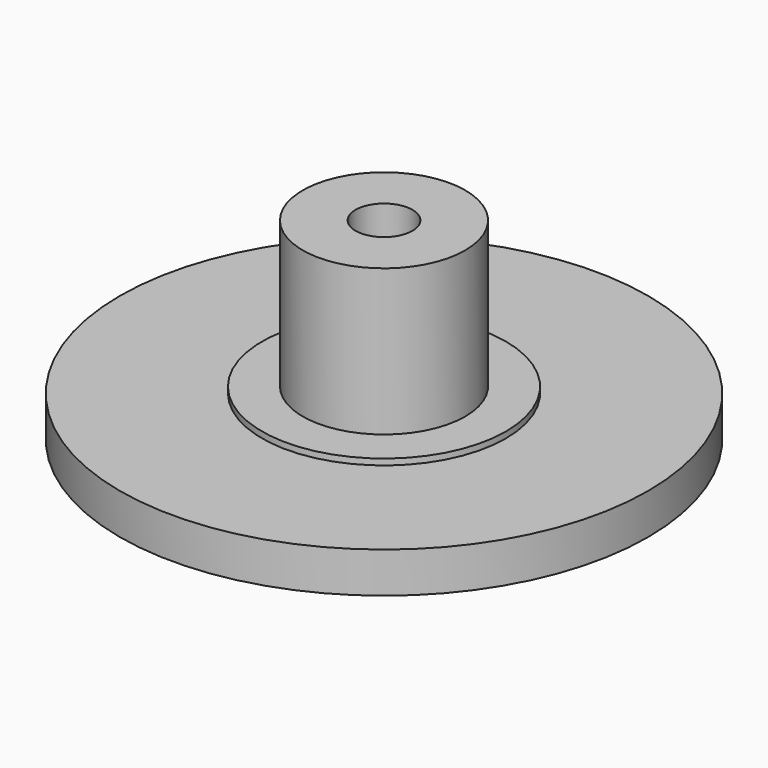
from build123d import *

# Parameters (mm, degrees)
F0_R     = 13
F1_DEPTH = 2
F2_R     = 6
F3_DEPTH = 0.3
F4_R     = 4
F5_DEPTH = 7.2
F6_R     = 1.4
F7_DEPTH = 9.501


with BuildPart() as f1:
    # F0 (on Top) → F1 (new body)
    with BuildSketch(Plane.XY):
        Circle(F0_R)
    extrude(amount=F1_DEPTH)

    # F2 (on face) → F3 (join)
    with BuildSketch(Plane.XY.offset(2)):
        Circle(F2_R)
    extrude(amount=F3_DEPTH)

    # F4 (on face) → F5 (join)
    with BuildSketch(Plane.XY.offset(2.3)):
        Circle(F4_R)
    extrude(amount=F5_DEPTH)

    # F6 (on face) → F7 (cut, through all)
    with BuildSketch(Plane.XY.offset(9.5)):
        Circle(F6_R)
    extrude(amount=-F7_DEPTH, mode=Mode.SUBTRACT)


solid = f1.part
